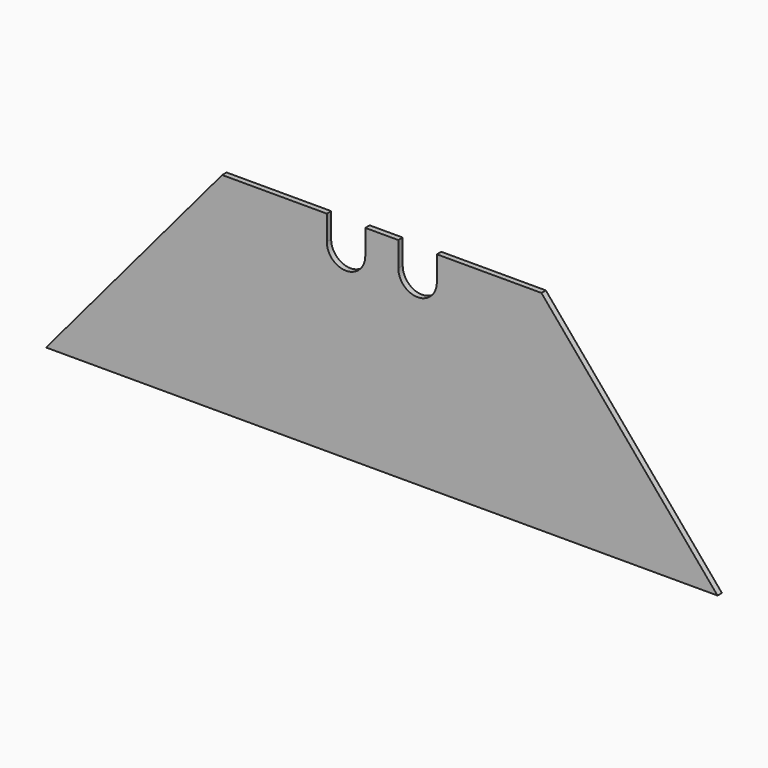
from build123d import *

# Parameters (mm, degrees)
F1_DEPTH = 0.5
F3_DEPTH = 25


with BuildPart() as f1:
    # F0 (on Front) → F1 (new body)
    with BuildSketch(Plane.XZ):
        Polygon((16, 19), (0, 0), (30.5, 0), (30.5, 19), align=None)
        Polygon((30.5, 19), (30.5, 0), (61, 0), (45, 19), align=None)
    extrude(amount=F1_DEPTH)

    # F2 (on face) → F3 (cut)
    with BuildSketch(Plane.XZ.offset(0.5)):
        with BuildLine():
            Line((35.5, 19), (32, 19))
            Line((32, 19), (32, 16.75))
            ThreePointArc((32, 16.75), (33.75, 18.5), (35.5, 16.75))
            Line((35.5, 16.75), (35.5, 19))
        make_face()
        with BuildLine():
            ThreePointArc((35.5, 16.75), (33.75, 18.5), (32, 16.75))
            ThreePointArc((32, 16.75), (33.75, 15), (35.5, 16.75))
        make_face()
        with BuildLine():
            ThreePointArc((25.5, 16.75), (27.25, 15), (29, 16.75))
            ThreePointArc((29, 16.75), (27.25, 18.5), (25.5, 16.75))
        make_face()
        with BuildLine():
            Line((29, 16.75), (29, 19))
            Line((29, 19), (25.5, 19))
            Line((25.5, 19), (25.5, 16.75))
            ThreePointArc((25.5, 16.75), (27.25, 18.5), (29, 16.75))
        make_face()
    extrude(amount=-F3_DEPTH, mode=Mode.SUBTRACT)


solid = f1.part
